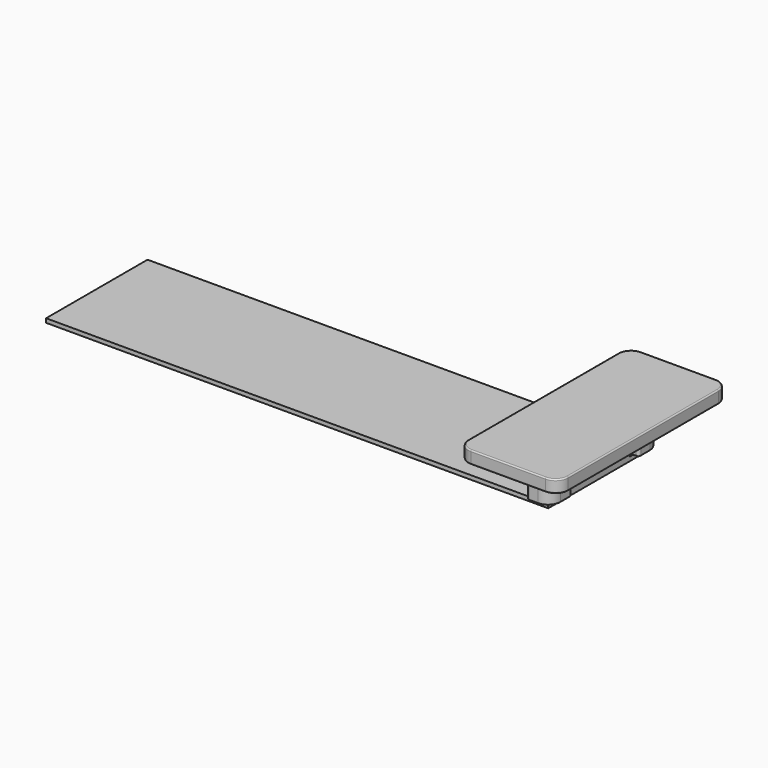
from build123d import *

# Parameters (mm, degrees)
F0_W      = 198
F0_H      = 50
F0_R      = 1.045
F1_DEPTH  = 1.6
F2_W      = 10
F2_H      = 30
F3_DEPTH  = 10
F4_W      = 6.945
F4_H      = 8.5
F4_R      = 1.045
F5_DEPTH  = 15
F6_R      = 5
F8_DEPTH  = 1.4
F9_R      = 1
F15_W     = 39.445
F15_H     = 84
F15_R     = 1.045
F16_DEPTH = 5
F17_SIZE  = 5
F18_R     = 5
F19_R     = 0.5


with BuildPart() as f1:
    # F0 (on Top) → F1 (new body)
    with BuildSketch(Plane.XY):
        with Locations((-99, 25)):
            Rectangle(F0_W, F0_H)
        with Locations((-2.945, 3.715)):
            Circle(F0_R, mode=Mode.SUBTRACT)
        with Locations((-2.945, 46.245)):
            Circle(F0_R, mode=Mode.SUBTRACT)
    extrude(amount=F1_DEPTH)

    # F2 (on face) → F3 (join)
    with BuildSketch(Plane.XY.offset(1.6)):
        with Locations((-5, 25)):
            Rectangle(F2_W, F2_H)
    extrude(amount=F3_DEPTH)


with BuildPart() as f5:
    # F4 (on face) → F5 (new body)
    with BuildSketch(Plane.XY.offset(1.6)):
        Polygon((2.5, 8.5), (0, 8.5), (0, 0), (-6.945, 0), (-6.945, -2), (2.5, -2), align=None)
        with Locations((-3.4725, 4.25)):
            Rectangle(F4_W, F4_H)
        with Locations((-2.945, 3.715)):
            Circle(F4_R, mode=Mode.SUBTRACT)
    extrude(amount=F5_DEPTH)

    # F6
    f6_edges = [f5.edges().sort_by_distance(p)[0] for p in [
        (2.5, -2, 9.1),
    ]]
    fillet(f6_edges, radius=F6_R)

    # F7 (on face) → F8 (cut)
    with BuildSketch(Plane(origin=(0, 0, 1.6), x_dir=(1, 0, 0), z_dir=(0, 0, -1))):
        Polygon((-0.5201288694, -3.715), (-1.7325644347, -1.615), (-4.1574355653, -1.615), (-5.3698711306, -3.715), (-4.1574355653, -5.815), (-1.7325644347, -5.815), align=None)
    extrude(amount=-F8_DEPTH, mode=Mode.SUBTRACT)

    # F9
    f9_edges = [f5.edges().sort_by_distance(p)[0] for p in [
        (-6.945, -2, 9.1),
        (2.5, 8.5, 9.1),
        (-6.945, 8.5, 9.1),
    ]]
    fillet(f9_edges, radius=F9_R)


with BuildPart() as f14_1:
    # F14: instance of F5
    add(f5.part.mirror(Plane.ZX.offset(25)))


with BuildPart() as f5_1:
    add(f5.part)

    add(f14_1.part)  # F16 merges F14_1
    # F15 (on face) → F16 (join)
    with BuildSketch(Plane.XY.offset(16.6)):
        with Locations((-2.2225, 25)):
            Rectangle(F15_W, F15_H)
        with BuildLine():
            Line((-2.5, -2), (-5.945, -2))
            ThreePointArc((-5.945, -2), (-6.6521067812, -1.7071067812), (-6.945, -1))
            Line((-6.945, -1), (-6.945, 7.5))
            ThreePointArc((-6.945, 7.5), (-6.6521067812, 8.2071067812), (-5.945, 8.5))
            Line((-5.945, 8.5), (1.5, 8.5))
            ThreePointArc((1.5, 8.5), (2.2071067812, 8.2071067812), (2.5, 7.5))
            Line((2.5, 7.5), (2.5, 3))
            ThreePointArc((2.5, 3), (1.0355339059, -0.5355339059), (-2.5, -2))
        make_face(mode=Mode.SUBTRACT)
        with BuildLine():
            ThreePointArc((-6.945, -1), (-6.6521067812, -1.7071067812), (-5.945, -2))
            Line((-5.945, -2), (-2.5, -2))
            ThreePointArc((-2.5, -2), (1.0355339059, -0.5355339059), (2.5, 3))
            Line((2.5, 3), (2.5, 7.5))
            ThreePointArc((2.5, 7.5), (2.2071067812, 8.2071067812), (1.5, 8.5))
            Line((1.5, 8.5), (-5.945, 8.5))
            ThreePointArc((-5.945, 8.5), (-6.6521067812, 8.2071067812), (-6.945, 7.5))
            Line((-6.945, 7.5), (-6.945, -1))
        make_face()
        with Locations((-2.945, 3.715)):
            Circle(F15_R, mode=Mode.SUBTRACT)
        with Locations((-2.945, 3.715)):
            Circle(F15_R)
    extrude(amount=F16_DEPTH)

    # F17
    f17_edges = [f5_1.edges().sort_by_distance(p)[0] for p in [
        (1.035534, 50.535534, 16.6),
        (2.5, 5.25, 16.6),
    ]]
    chamfer(f17_edges, length=F17_SIZE)

    # F18
    f18_edges = [f5_1.edges().sort_by_distance(p)[0] for p in [
        (-21.945, 67, 19.1),
        (17.5, 67, 19.1),
        (17.5, -17, 19.1),
        (-21.945, -17, 19.1),
    ]]
    fillet(f18_edges, radius=F18_R)

    # F19
    f19_edges = [f5_1.edges().sort_by_distance(p)[0] for p in [
        (-21.945, 25, 16.6),
        (-20.480534, 65.535534, 16.6),
        (-20.480534, -15.535534, 16.6),
        (-2.2225, 67, 16.6),
        (-2.2225, -17, 16.6),
        (16.035534, 65.535534, 16.6),
        (16.035534, -15.535534, 16.6),
        (17.5, 25, 16.6),
        (4.571068, 54.071068, 16.6),
        (-4.2225, 57, 16.6),
        (7.5, 44.75, 16.6),
        (-10.187641, 55.242641, 16.6),
        (5.742641, 38.257359, 16.6),
        (-11.945, 46.75, 16.6),
        (-2.2225, 36.5, 16.6),
        (-10.187641, 38.257359, 16.6),
        (7.5, 5.25, 16.6),
        (4.571068, -4.071068, 16.6),
        (5.742641, 11.742641, 16.6),
        (-4.2225, -7, 16.6),
        (-2.2225, 13.5, 16.6),
        (-10.187641, -5.242641, 16.6),
        (-10.187641, 11.742641, 16.6),
        (-11.945, 3.25, 16.6),
        (-21.945, 25, 21.6),
        (-20.480534, 65.535534, 21.6),
        (-20.480534, -15.535534, 21.6),
        (-2.2225, 67, 21.6),
        (-2.2225, -17, 21.6),
        (16.035534, 65.535534, 21.6),
        (16.035534, -15.535534, 21.6),
        (17.5, 25, 21.6),
        (2.5, 44.75, 11.6),
        (-4.2225, -2, 1.6),
        (-2.2225, 41.5, 1.6),
    ]]
    fillet(f19_edges, radius=F19_R)


solid = Compound([f1.part, f5_1.part])
